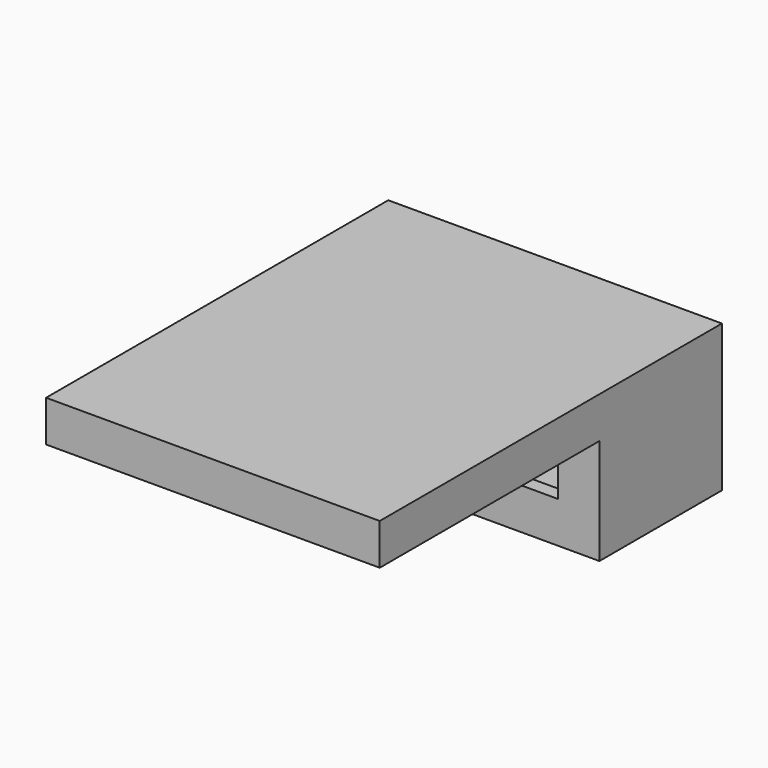
from build123d import *

# Parameters (mm, degrees)
F0_W     = 24.3
F0_H     = 10.7
F0_W_2   = 20.3
F0_H_2   = 6.7
F1_DEPTH = 11.15
F2_W     = 20.3
F2_H     = 6.7
F2_W_2   = 18.3
F2_H_2   = 4.7
F3_DEPTH = 1
F5_DEPTH = 20


with BuildPart() as f1:
    # F0 (on Front) → F1 (new body)
    with BuildSketch(Plane.XZ):
        Rectangle(F0_W, F0_H)
        Rectangle(F0_W_2, F0_H_2, mode=Mode.SUBTRACT)
    extrude(amount=F1_DEPTH)

    # F2 (on face) → F3 (join)
    with BuildSketch(Plane.XZ.offset(11.15)):
        Rectangle(F2_W, F2_H)
        Rectangle(F2_W_2, F2_H_2, mode=Mode.SUBTRACT)
    extrude(amount=-F3_DEPTH)

    # F4 (on face) → F5 (join)
    with BuildSketch(Plane.XZ.offset(11.15)):
        Polygon((12.15, 2.35), (12.15, 5.35), (-12.15, 5.35), (-12.15, 2.35), (-9.15, 2.35), (9.15, 2.35), align=None)
    extrude(amount=F5_DEPTH)


solid = f1.part
